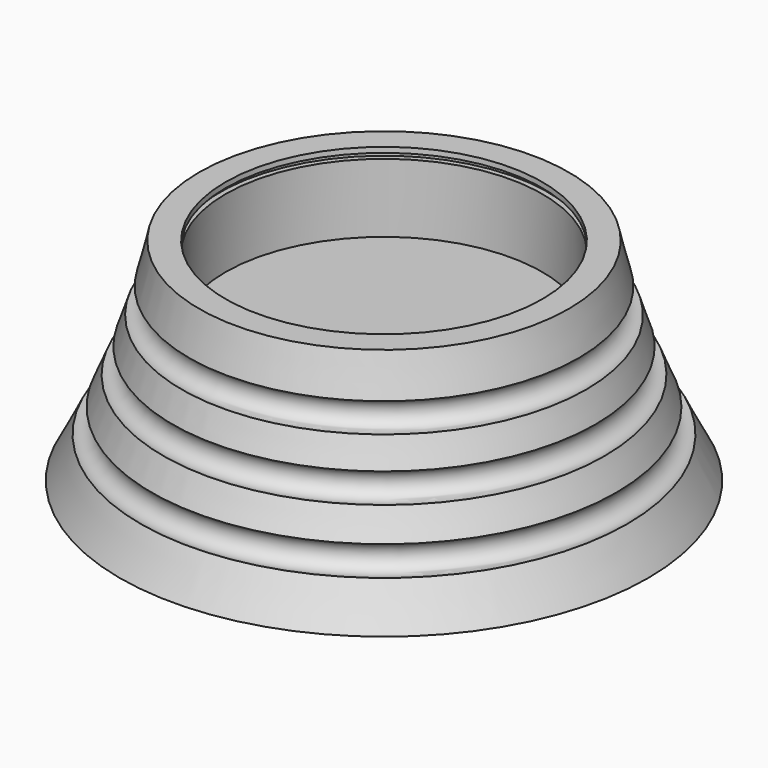
from build123d import *


with BuildPart() as f1:
    # F0 (on Front) → F1 (revolve)
    with BuildSketch(Plane.XZ):
        with BuildLine():
            Line((-50, 0), (0, 0))
            ThreePointArc((0, 0), (-2.033253, 3.837999), (-3.954535, 7.733257))
            ThreePointArc((-3.954535, 7.733257), (-7.284442, 8.96447), (-6.025522, 12.284002))
            ThreePointArc((-6.025522, 12.284002), (-7.160362, 14.96283), (-8.243034, 17.663164))
            ThreePointArc((-8.243034, 17.663164), (-11.475559, 19.131137), (-9.980699, 22.351317))
            ThreePointArc((-9.980699, 22.351317), (-10.87522, 24.970917), (-11.721249, 27.606577))
            ThreePointArc((-11.721249, 27.606577), (-14.842774, 29.297804), (-13.125593, 32.405127))
            ThreePointArc((-13.125593, 32.405127), (-14.112315, 36.190342), (-15, 40))
            Line((-15, 40), (-20, 40))
            Line((-20, 40), (-20, 39))
            Line((-20, 39), (-19, 39))
            Line((-19, 39), (-19, 38))
            Line((-19, 38), (-20, 38))
            Line((-20, 38), (-20, 25))
            Line((-20, 25), (-50, 25))
            Line((-50, 25), (-50, 0))
        make_face()
    revolve(axis=Axis((-50, 0, 12.5), (0, 0, 1)))


solid = f1.part
